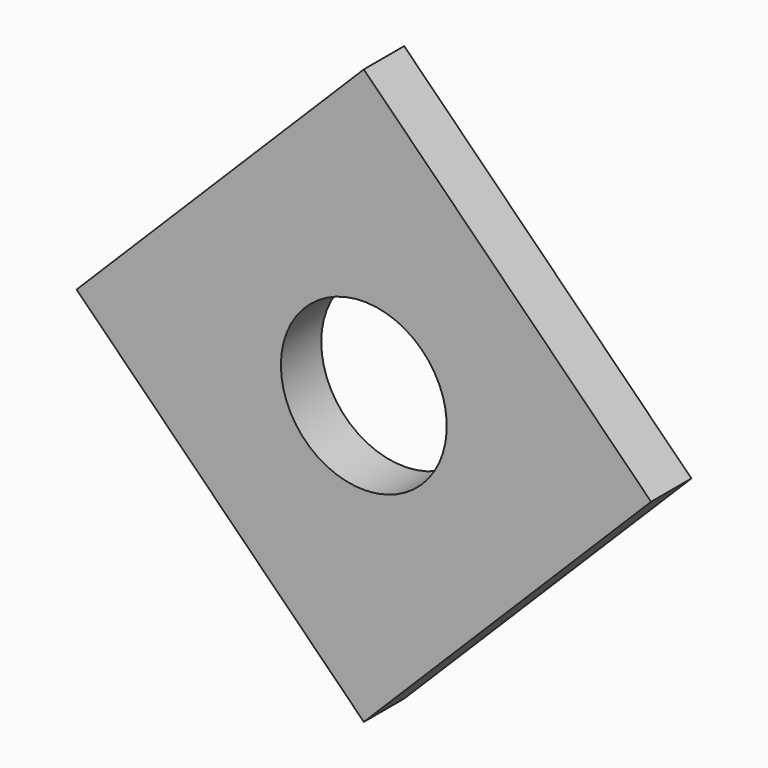
from build123d import *

# Parameters (mm, degrees)
F1_DEPTH = 6.69


with BuildPart() as f1:
    # F0 (on Front) → F1 (new body)
    with BuildSketch(Plane.XZ):
        with BuildLine():
            Line((38.1, 0), (11, 0))
            ThreePointArc((11, 0), (0, -11), (-11, 0))
            Line((-11, 0), (-38.1, 0))
            Line((-38.1, 0), (0, -38.1))
            Line((0, -38.1), (38.1, 0))
        make_face()
        with BuildLine():
            ThreePointArc((-11, 0), (0, 11), (11, 0))
            Line((11, 0), (38.1, 0))
            Line((38.1, 0), (0, 38.1))
            Line((0, 38.1), (-38.1, 0))
            Line((-38.1, 0), (-11, 0))
        make_face()
    extrude(amount=F1_DEPTH)


solid = f1.part
